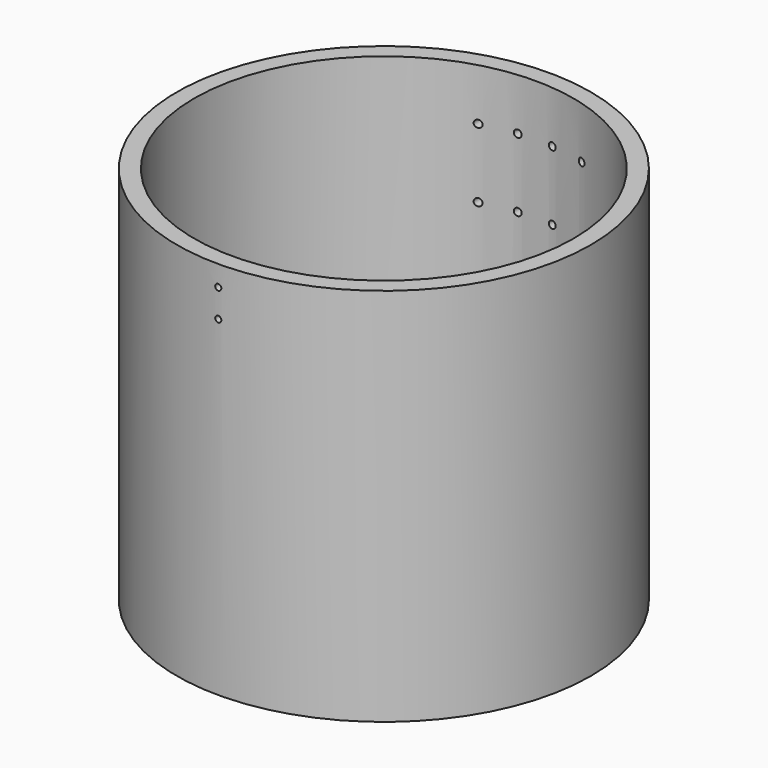
from build123d import *

# Parameters (mm, degrees)
F0_R     = 152.4
F0_R_2   = 139.7
F1_DEPTH = 279.4
F3_D     = 5.4102
F3_DEPTH = 21.59
F3_TIP   = 1.6253880605
F5_D     = 4.4958
F5_DEPTH = 152.401
F6_D     = 5.4102
F6_DEPTH = 152.4010001


with BuildPart() as f1:
    # F0 (on Top) → F1 (new body)
    with BuildSketch(Plane.XY):
        Circle(F0_R)
        Circle(F0_R_2, mode=Mode.SUBTRACT)
    extrude(amount=F1_DEPTH)

    # F3
    with Locations(Plane(origin=(0, 0, 0), x_dir=(1, 0, 0), z_dir=(0, 0, -1))):
        with Locations((-134.9326057233, 55.8909152969), (-103.2729453923, 103.2729453923), (-55.8909152969, 134.9326057233), (0, 146.05), (55.8909152969, 134.9326057233), (103.2729453923, 103.2729453923), (134.9326057233, 55.8909152969), (146.05, 0), (134.9326057233, -55.8909152969), (103.2729453923, -103.2729453923), (55.8909152969, -134.9326057233), (0, -146.05), (-55.8909152969, -134.9326057233), (-103.2729453923, -103.2729453923), (-134.9326057233, -55.8909152969), (-146.05, 0)):
            Hole(F3_D / 2, depth=F3_DEPTH)
            with Locations((0, 0, -(F3_DEPTH + F3_TIP / 2))):  # 118° drill point
                Cone(0, F3_D / 2, F3_TIP, mode=Mode.SUBTRACT)

    # F5 (through all, one way)
    with BuildSketch(Plane(origin=(0, 0, 0), x_dir=(1, 0, 0), z_dir=(0, 1, 0))):
        with Locations((0, -264.31748), (0, -243.67998)):
            Circle(F5_D / 2)
    extrude(amount=-F5_DEPTH, mode=Mode.SUBTRACT)

    # F6 (through all, one way)
    with BuildSketch(Plane.XZ):
        with Locations((38.1, 241.3), (12.7, 241.3), (38.1, 190.5), (12.7, 190.5), (-12.7, 190.5), (-12.7, 241.3), (-38.1, 241.3), (-38.1, 190.5)):
            Circle(F6_D / 2)
    extrude(amount=-F6_DEPTH, mode=Mode.SUBTRACT)


solid = f1.part
